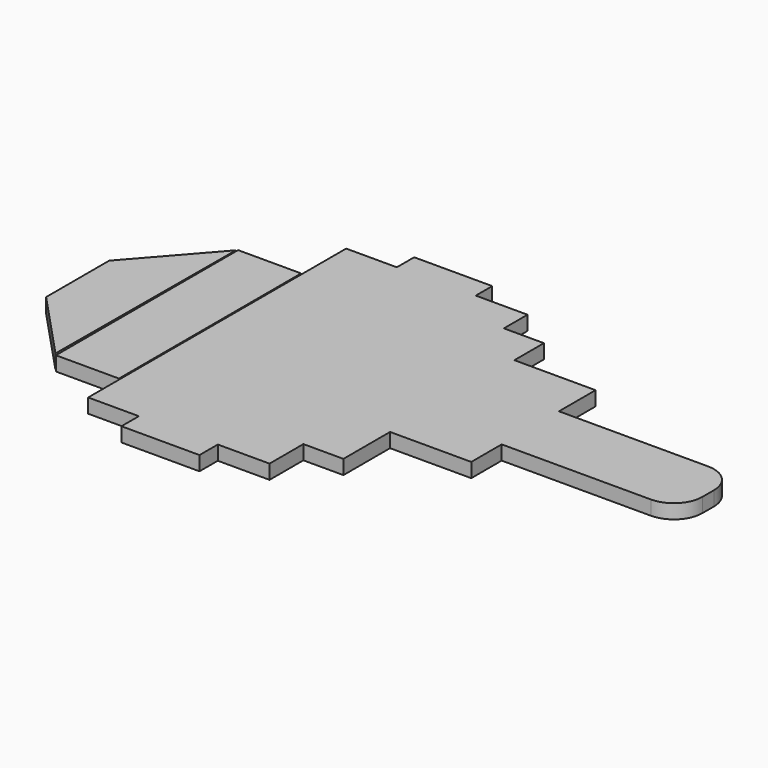
from build123d import *

# Parameters (mm, degrees)
F1_DEPTH  = 2.54
F2_W      = 14.602579
F2_H      = 27.559
F3_DEPTH  = 2.54
F4_W      = 7.504107
F4_H      = 44.45
F5_DEPTH  = 2.54
F6_W      = 9.532242
F6_H      = 57.19346
F7_DEPTH  = 2.54
F8_W      = 13.843
F8_H      = 64.90038
F9_DEPTH  = 2.54
F10_W     = 9.532242
F10_H     = 57.19346
F11_DEPTH = 2.54
F12_W     = 11.176
F12_H     = 40.386
F13_DEPTH = 2.54
F15_DEPTH = 2.54


with BuildPart() as f1:
    # F0 (on Top) → F1 (new body)
    with BuildSketch(Plane.XY):
        with BuildLine():
            Line((70.984791, 7.479962), (44.314791, 7.479962))
            Line((44.314791, 7.479962), (44.314791, -5.220038))
            Line((44.314791, -5.220038), (70.984791, -5.220038))
            ThreePointArc((70.984791, -5.220038), (74.576893, -3.732141), (76.064791, -0.140038))
            Line((76.064791, -0.140038), (76.064791, 2.399962))
            ThreePointArc((76.064791, 2.399962), (74.576893, 5.992064), (70.984791, 7.479962))
        make_face()
    extrude(amount=F1_DEPTH)

    # F2 (on Top) → F3 (join)
    with BuildSketch(Plane.XY):
        with Locations((37.216313, 1.813492)):
            Rectangle(F2_W, F2_H)
    extrude(amount=F3_DEPTH)

    # F4 (on Top) → F5 (join)
    with BuildSketch(Plane.XY):
        with Locations((26.36578, -0.084504)):
            Rectangle(F4_W, F4_H)
    extrude(amount=F5_DEPTH)

    # F6 (on Top) → F7 (join)
    with BuildSketch(Plane.XY):
        with Locations((18.253232, -1.216882)):
            Rectangle(F6_W, F6_H)
    extrude(amount=F7_DEPTH)

    # F8 (on Top) → F9 (join)
    with BuildSketch(Plane.XY):
        with Locations((6.9215, -1.419695)):
            Rectangle(F8_W, F8_H)
    extrude(amount=F9_DEPTH)

    # F10 (on Top) → F11 (join)
    with BuildSketch(Plane.XY):
        with Locations((-4.221423, -1.413903)):
            Rectangle(F10_W, F10_H)
    extrude(amount=F11_DEPTH)


with BuildPart() as f13:
    # F12 (on Top) → F13 (new body)
    with BuildSketch(Plane.XY):
        with Locations((-14.794775, -2.724947)):
            Rectangle(F12_W, F12_H)
    extrude(amount=F13_DEPTH)


with BuildPart() as f15:
    # F14 (on Top) → F15 (new body)
    with BuildSketch(Plane.XY):
        Polygon((-20.788403, -22.51232), (-20.585589, 17.239165), (-32.348786, 3.85346), (-32.348786, -10.140684), align=None)
    extrude(amount=F15_DEPTH)


solid = Compound([f1.part, f13.part, f15.part])
